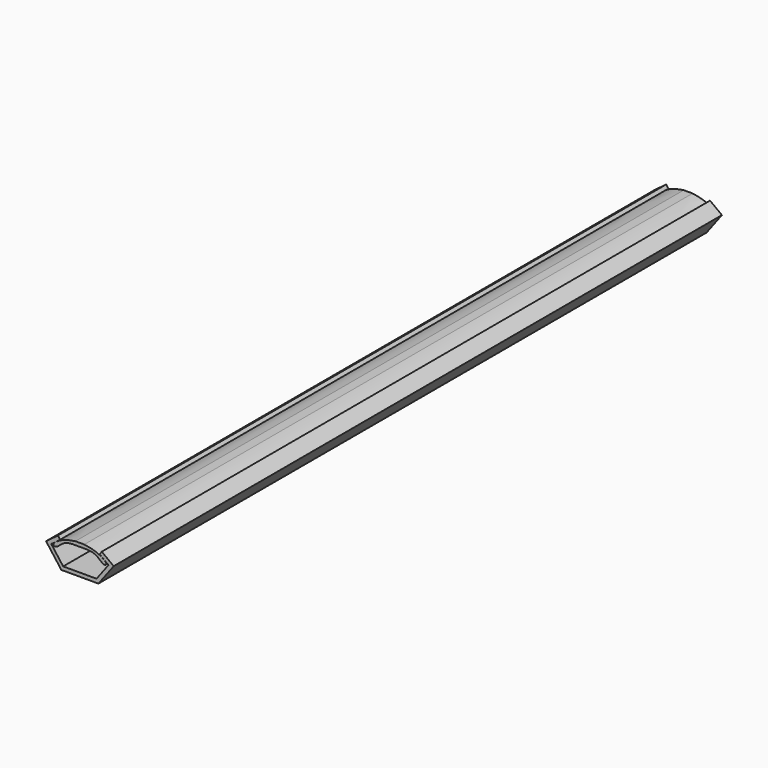
from build123d import *

# Parameters (mm, degrees)
F1_DEPTH = 205
F3_DEPTH = 205


with BuildPart() as f1:
    # F0 (on Front) → F1 (new body)
    with BuildSketch(Plane.XZ):
        Polygon((4.5, -6.0779305603), (0, -6.0779305603), (-4.5, -6.0779305603), (-7.7084479203, -1.8), (-5.3084479203, 0), (-5.9084479203, 0.8), (-9.1084479203, -1.6), (-5, -7.0779305603), (0, -7.0779305603), (5, -7.0779305603), (9.1084479203, -1.6), (5.9084479203, 0.8), (5.3084479203, 0), (7.7084479203, -1.8), align=None)
    extrude(amount=F1_DEPTH)


with BuildPart() as f3:
    # F2 (on Front) → F3 (new body)
    with BuildSketch(Plane.XZ):
        with BuildLine():
            Line((0, 0.9681585943), (-1.1958437972, 0.9681585943))
            add(Edge.make_bspline(
                [(-1.1958437972, 0.9681585943), (-2.4220229659, 0.7758633532), (-4.6928505732, 0.4197413823), (-7.7601163519, -1.6798641852), (-6.1811186793, -2.3811365052), (-4.3384058389, 0.1594014536), (-1.5542332066, 0.0571055456), (0, 0)],
                knots=[0, 0, 0, 0, 0.2393610047, 0.4432856074, 0.5481030238, 0.7477335715, 1, 1, 1, 1], degree=3))
            add(Edge.make_bspline(
                [(1.1958437972, 0.9681585943), (2.4220229659, 0.7758633532), (4.6928505732, 0.4197413823), (7.7601163519, -1.6798641852), (6.1811186793, -2.3811365052), (4.3384058389, 0.1594014536), (1.5542332066, 0.0571055456), (0, 0)],
                knots=[0, 0, 0, 0, 0.2393610047, 0.4432856074, 0.5481030238, 0.7477335715, 1, 1, 1, 1], degree=3))
            Line((1.1958437972, 0.9681585943), (0, 0.9681585943))
        make_face()
    extrude(amount=F3_DEPTH)


solid = Compound([f1.part, f3.part])
